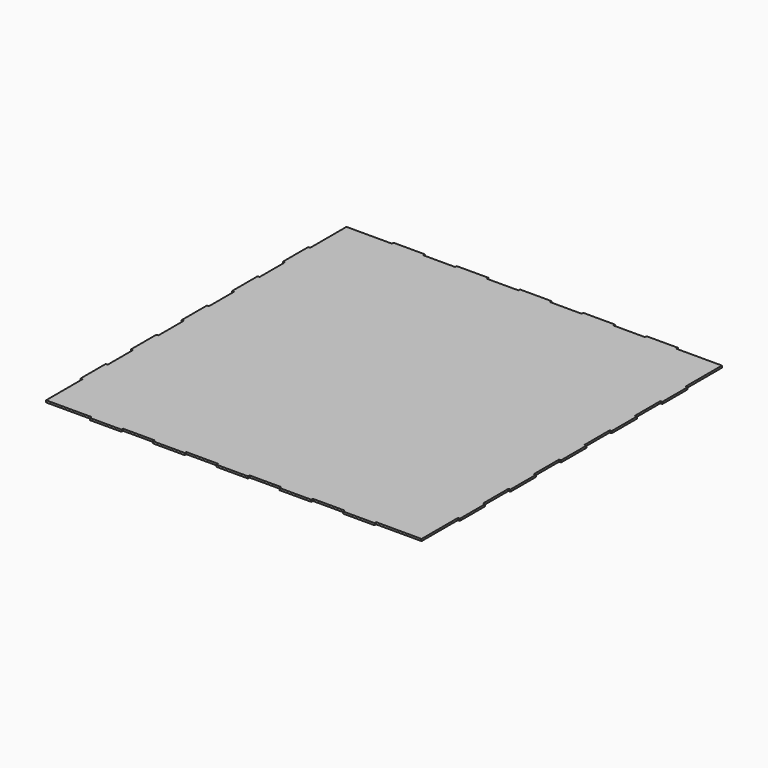
from build123d import *

# Parameters (mm, degrees)
F0_W     = 609.6
F0_H     = 609.6
F1_DEPTH = 3.175
F2_W     = 76.2
F2_H     = 3.175
F2_W_2   = 3.175
F2_H_2   = 76.2
F3_DEPTH = 25.4
F4_W     = 3.175
F4_H     = 73.025
F4_W_2   = 73.025
F4_H_2   = 3.175
F5_DEPTH = 25.4
F6_W     = 50.8
F6_H     = 3.175
F6_W_2   = 3.175
F6_H_2   = 50.8
F7_DEPTH = 25.4


with BuildPart() as f1:
    # F0 (on Top) → F1 (new body)
    with BuildSketch(Plane.XY):
        Rectangle(F0_W, F0_H)
    extrude(amount=F1_DEPTH)

    # F2 (on face) → F3 (cut)
    with BuildSketch(Plane.XY.offset(3.175)):
        with Locations((-266.7, -303.2125)):
            Rectangle(F2_W, F2_H)
        with Locations((303.2125, -266.7)):
            Rectangle(F2_W_2, F2_H_2)
        with Locations((266.7, 303.2125)):
            Rectangle(F2_W, F2_H)
        with Locations((-303.2125, 266.7)):
            Rectangle(F2_W_2, F2_H_2)
    extrude(amount=-F3_DEPTH, mode=Mode.SUBTRACT)

    # F4 (on face) → F5 (cut)
    with BuildSketch(Plane.XY.offset(3.175)):
        with Locations((-303.2125, -265.1125)):
            Rectangle(F4_W, F4_H)
        with Locations((265.1125, -303.2125)):
            Rectangle(F4_W_2, F4_H_2)
        with Locations((303.2125, 265.1125)):
            Rectangle(F4_W, F4_H)
        with Locations((-265.1125, 303.2125)):
            Rectangle(F4_W_2, F4_H_2)
    extrude(amount=-F5_DEPTH, mode=Mode.SUBTRACT)

    # F6 (on face) → F7 (cut)
    with BuildSketch(Plane.XY.offset(3.175)):
        with Locations((-152.4, -303.2125)):
            Rectangle(F6_W, F6_H)
        with Locations((-50.8, -303.2125)):
            Rectangle(F6_W, F6_H)
        with Locations((50.8, -303.2125)):
            Rectangle(F6_W, F6_H)
        with Locations((152.4, -303.2125)):
            Rectangle(F6_W, F6_H)
        with Locations((303.2125, -50.8)):
            Rectangle(F6_W_2, F6_H_2)
        with Locations((303.2125, 50.8)):
            Rectangle(F6_W_2, F6_H_2)
        with Locations((303.2125, 152.4)):
            Rectangle(F6_W_2, F6_H_2)
        with Locations((303.2125, -152.4)):
            Rectangle(F6_W_2, F6_H_2)
        with Locations((50.8, 303.2125)):
            Rectangle(F6_W, F6_H)
        with Locations((-50.8, 303.2125)):
            Rectangle(F6_W, F6_H)
        with Locations((-152.4, 303.2125)):
            Rectangle(F6_W, F6_H)
        with Locations((152.4, 303.2125)):
            Rectangle(F6_W, F6_H)
        with Locations((-303.2125, 50.8)):
            Rectangle(F6_W_2, F6_H_2)
        with Locations((-303.2125, -50.8)):
            Rectangle(F6_W_2, F6_H_2)
        with Locations((-303.2125, -152.4)):
            Rectangle(F6_W_2, F6_H_2)
        with Locations((-303.2125, 152.4)):
            Rectangle(F6_W_2, F6_H_2)
    extrude(amount=-F7_DEPTH, mode=Mode.SUBTRACT)


solid = f1.part
